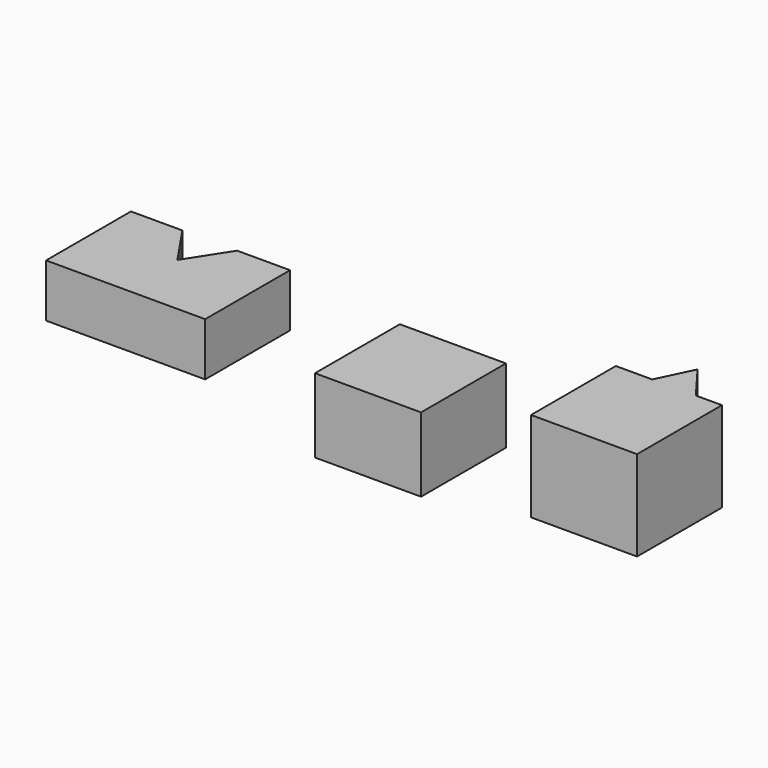
from build123d import *

# Parameters (mm, degrees)
F0_W     = 20
F0_H     = 20
F1_DEPTH = 14
F3_DEPTH = 17
F5_DEPTH = 10


with BuildPart() as f1:
    # F0 (on Top) → F1 (new body)
    with BuildSketch(Plane.XY):
        with Locations((-0.545902, -5.967321)):
            Rectangle(F0_W, F0_H)
    extrude(amount=F1_DEPTH)


with BuildPart() as f3:
    # F2 (on Top) → F3 (new body)
    with BuildSketch(Plane.XY):
        Polygon((33.074808, 8.999499), (26.208911, 8.999499), (26.208911, -11.000501), (46.208911, -11.000501), (46.208911, 8.999499), (41.28367, 8.999499), (36.282495, 15.667995), align=None)
    extrude(amount=F3_DEPTH)


with BuildPart() as f5:
    # F4 (on Top) → F5 (new body)
    with BuildSketch(Plane.XY):
        Polygon((-59.02863, 13.385359), (-68.729437, 13.385359), (-68.729437, -6.614641), (-38.729437, -6.614641), (-38.729437, 13.385359), (-48.708464, 13.385359), (-53.729437, 5.57876), align=None)
    extrude(amount=F5_DEPTH)


solid = Compound([f1.part, f3.part, f5.part])
